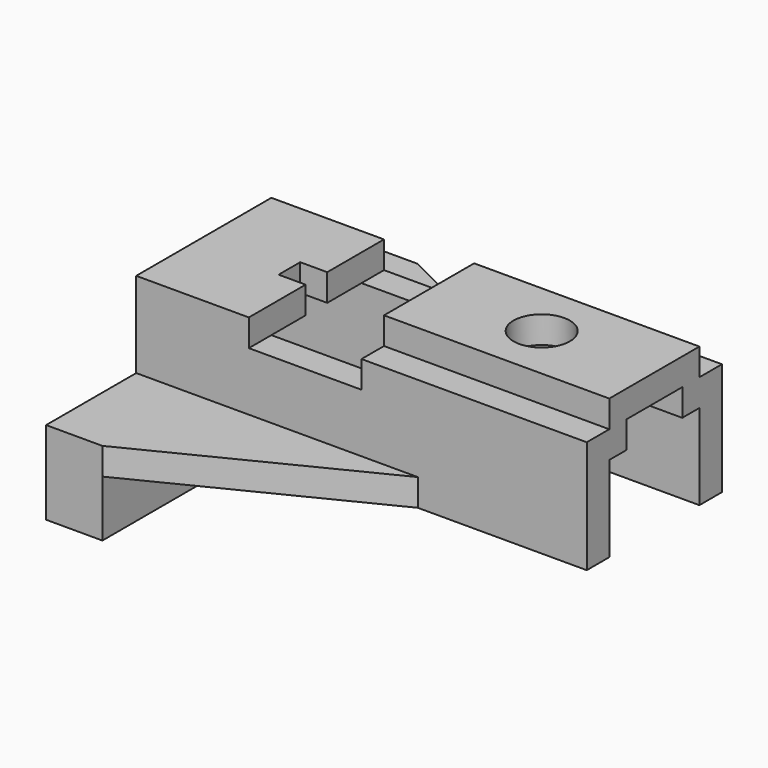
from build123d import *

# Parameters (mm, degrees)
PAD_DEPTH       = 62
SKETCH001_W     = 174.899156
SKETCH001_H     = 58.891647
SKETCH001_W_2   = 149.195125
SKETCH001_H_2   = 63.358872
POCKET_DEPTH    = 50
SKETCH002_W     = 24.450794
SKETCH002_H     = 18.2717568888
SKETCH002_W_2   = 25.01263
POCKET001_DEPTH = 200.001
SKETCH003_W     = 109.462605
SKETCH003_H     = 100.191001
POCKET002_DEPTH = 12
SKETCH004_W     = 50
SKETCH004_H     = 111.170834
POCKET003_DEPTH = 12
SKETCH005_W     = 25
SKETCH005_H     = 175
PAD001_DEPTH    = 25
POCKET004_DEPTH = 200.001
SKETCH007_W     = 31
SKETCH007_H     = 12
POCKET005_DEPTH = 100.001
SKETCH008_R     = 12.5
POCKET006_DEPTH = 87.001
SKETCH009_W     = 25.552227
SKETCH009_H     = 12
POCKET007_DEPTH = 75.001


with BuildPart() as part:
    # Sketch → Pad (new body)
    with BuildSketch(Plane.XY):
        Polygon((0, 87.5), (0, -87.5), (25, -87.5), (125, -37.5), (200, -37.5), (200, 37.5), (125, 37.5), (25, 87.5), align=None)
    extrude(amount=PAD_DEPTH)

    # Sketch001 → Pocket (cut)
    with BuildSketch(Plane.XY.offset(62)):
        with Locations((66.856742, 66.9458235)):
            Rectangle(SKETCH001_W, SKETCH001_H)
        with Locations((63.5040375, -69.179436)):
            Rectangle(SKETCH001_W_2, SKETCH001_H_2)
    extrude(amount=-POCKET_DEPTH, mode=Mode.SUBTRACT)

    # Sketch002 → Pocket001 (cut, through all)
    with BuildSketch(Plane.YZ.offset(200)):
        with Locations((-37.225397, 59.1358784444)):
            Rectangle(SKETCH002_W, SKETCH002_H)
        with Locations((37.506315, 59.1358784444)):
            Rectangle(SKETCH002_W_2, SKETCH002_H)
    extrude(amount=-POCKET001_DEPTH, mode=Mode.SUBTRACT)

    # Sketch003 → Pocket002 (cut)
    with BuildSketch(Plane.XY.offset(62)):
        with Locations((45.2686975, 1.1479225)):
            Rectangle(SKETCH003_W, SKETCH003_H)
    extrude(amount=-POCKET002_DEPTH, mode=Mode.SUBTRACT)

    # Sketch004 → Pocket003 (cut)
    with BuildSketch(Plane.XY.offset(50)):
        with Locations((75, 0.690428)):
            Rectangle(SKETCH004_W, SKETCH004_H)
    extrude(amount=-POCKET003_DEPTH, mode=Mode.SUBTRACT)

    # Sketch005 → Pad001 (new body)
    with BuildSketch(Plane(origin=(0, 0, 0), x_dir=(1, 0, 0), z_dir=(0, 0, -1))):
        with Locations((12.5, 0)):
            Rectangle(SKETCH005_W, SKETCH005_H)
    extrude(amount=PAD001_DEPTH)

    # Sketch006 → Pocket004 (cut, through all)
    with BuildSketch(Plane(origin=(0, 0, 0), x_dir=(0, -1, 0), z_dir=(-1, 0, 0))):
        Polygon((-25, 38), (25, 38), (25, 0), (31, 0), (31, -41.126076), (-31, -41.126076), (-31, 0), (-25, 0), align=None)
    extrude(amount=-POCKET004_DEPTH, mode=Mode.SUBTRACT)

    # Sketch007 → Pocket005 (cut, through all)
    with BuildSketch(Plane(origin=(100, 0, 0), x_dir=(0, -1, 0), z_dir=(-1, 0, 0))):
        with Locations((0, 44)):
            Rectangle(SKETCH007_W, SKETCH007_H)
    extrude(amount=-POCKET005_DEPTH, mode=Mode.SUBTRACT)

    # Sketch008 → Pocket006 (cut, through all)
    with BuildSketch(Plane.XY.offset(62)):
        with Locations((150, 0)):
            Circle(SKETCH008_R)
    extrude(amount=-POCKET006_DEPTH, mode=Mode.SUBTRACT)

    # Sketch009 → Pocket007 (cut, through all)
    with BuildSketch(Plane.XY.offset(50)):
        with Locations((50.7761135, 0)):
            Rectangle(SKETCH009_W, SKETCH009_H)
    extrude(amount=-POCKET007_DEPTH, mode=Mode.SUBTRACT)


solid = part.part
